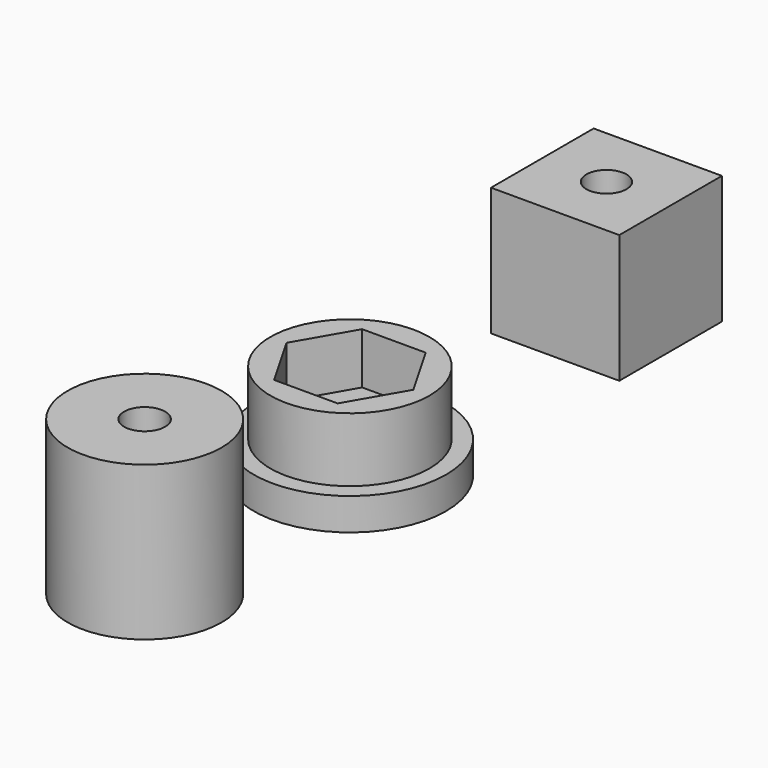
from build123d import *

# Parameters (mm, degrees)
F0_R      = 9.525
F1_DEPTH  = 3.175
F2_R      = 7.874
F3_DEPTH  = 6.35
F5_DEPTH  = 5.08
F6_R      = 3.2131
F7_DEPTH  = 9.526
F8_W      = 12.7
F8_H      = 12.7
F9_DEPTH  = 12.7
F10_R     = 1.98501
F11_DEPTH = 12.701
F12_R     = 7.62
F13_DEPTH = 15.24
F14_R     = 2.032
F15_DEPTH = 15.241


with BuildPart() as f1:
    # F0 (on Top) → F1 (new body)
    with BuildSketch(Plane.XY):
        Circle(F0_R)
    extrude(amount=F1_DEPTH)

    # F2 (on face) → F3 (join)
    with BuildSketch(Plane.XY.offset(3.175)):
        Circle(F2_R)
    extrude(amount=F3_DEPTH)

    # F4 (on face) → F5 (cut)
    with BuildSketch(Plane.XY.offset(9.525)):
        Polygon((6.2865, 0), (3.14325, 5.444269), (-3.14325, 5.444269), (-6.2865, 0), (-3.14325, -5.444269), (3.14325, -5.444269), align=None)
    extrude(amount=-F5_DEPTH, mode=Mode.SUBTRACT)

    # F6 (on face) → F7 (cut, through all)
    with BuildSketch(Plane(origin=(0, 0, 0), x_dir=(1, 0, 0), z_dir=(0, 0, -1))):
        Circle(F6_R)
    extrude(amount=-F7_DEPTH, mode=Mode.SUBTRACT)


with BuildPart() as f9:
    # F8 (on Top) → F9 (new body)
    with BuildSketch(Plane.XY):
        with Locations((0, 31.75)):
            Rectangle(F8_W, F8_H)
    extrude(amount=F9_DEPTH)

    # F10 (on face) → F11 (cut, through all)
    with BuildSketch(Plane.XY.offset(12.7)):
        with Locations((0, 31.75)):
            Circle(F10_R)
    extrude(amount=-F11_DEPTH, mode=Mode.SUBTRACT)


with BuildPart() as f13:
    # F12 (on Top) → F13 (new body)
    with BuildSketch(Plane.XY):
        with Locations((0, -25.4)):
            Circle(F12_R)
    extrude(amount=F13_DEPTH)

    # F14 (on face) → F15 (cut, through all)
    with BuildSketch(Plane.XY.offset(15.24)):
        with Locations((0, -25.4)):
            Circle(F14_R)
    extrude(amount=-F15_DEPTH, mode=Mode.SUBTRACT)


solid = Compound([f1.part, f9.part, f13.part])
